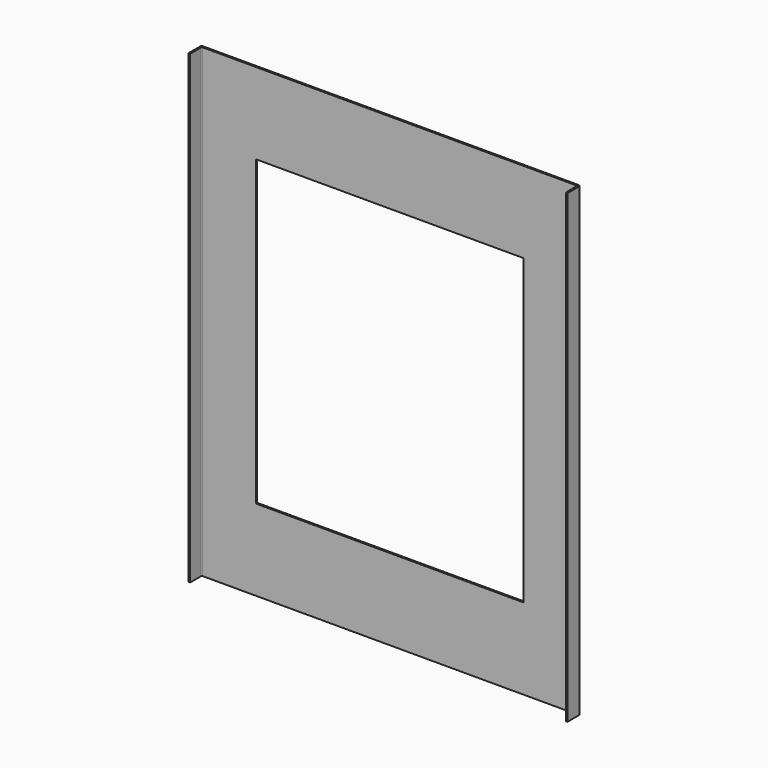
from build123d import *

# Parameters (mm, degrees)
F1_DEPTH = 860
F2_W     = 494
F2_H     = 560
F3_DEPTH = 25


with BuildPart() as f1:
    # F0 (on Top) → F1 (new body)
    with BuildSketch(Plane.XY):
        with BuildLine():
            Line((347, 3), (0, 3))
            Line((0, 3), (-347, 3))
            ThreePointArc((-347, 3), (-349.12132, 2.12132), (-350, 0))
            Line((-350, 0), (-350, -27))
            Line((-350, -27), (-347, -27))
            Line((-347, -27), (-347, -1.5))
            ThreePointArc((-347, -1.5), (-346.56066, -0.43934), (-345.5, 0))
            Line((-345.5, 0), (345.5, 0))
            ThreePointArc((345.5, 0), (346.56066, -0.43934), (347, -1.5))
            Line((347, -1.5), (347, -27))
            Line((347, -27), (350, -27))
            Line((350, -27), (350, 0))
            ThreePointArc((350, 0), (349.12132, 2.12132), (347, 3))
        make_face()
    extrude(amount=F1_DEPTH)

    # F2 (on face) → F3 (cut)
    with BuildSketch(Plane.XZ):
        with Locations((0, 430)):
            Rectangle(F2_W, F2_H)
    extrude(amount=-F3_DEPTH, mode=Mode.SUBTRACT)


solid = f1.part
